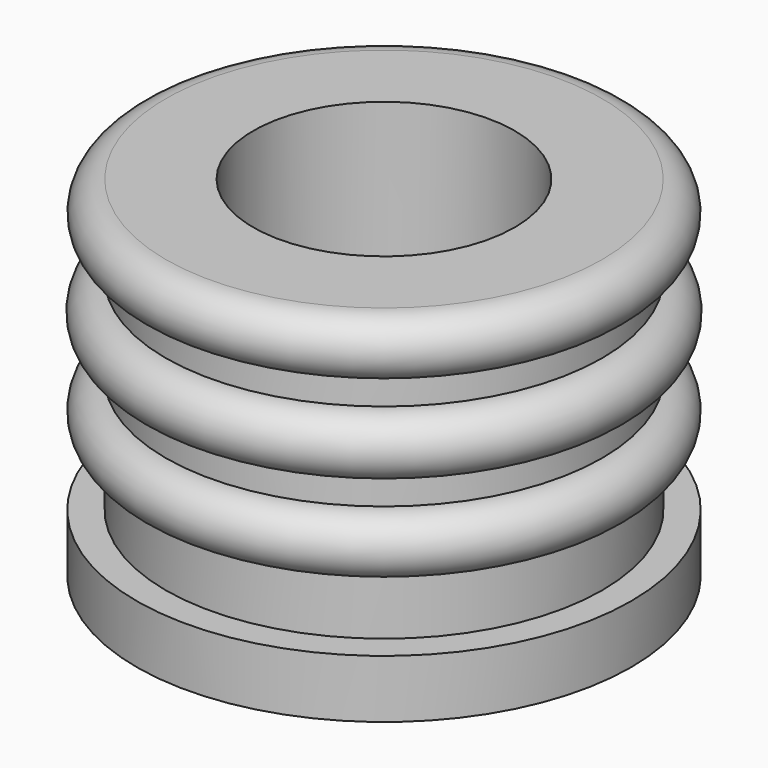
from build123d import *


with BuildPart() as f1:
    # F0 (on Front) → F1 (revolve)
    with BuildSketch(Plane.XZ):
        with BuildLine():
            Line((8.5, 1), (8.5, 3))
            Line((8.5, 3), (7.5, 3))
            Line((7.5, 3), (7.5, 5))
            ThreePointArc((7.5, 5), (8.5, 6), (7.5, 7))
            Line((7.5, 7), (7.5, 7.976211))
            ThreePointArc((7.5, 7.976211), (8.523789, 9), (7.5, 10.023789))
            Line((7.5, 10.023789), (7.5, 11.000019))
            ThreePointArc((7.5, 11.000019), (8.493881, 12.003057), (7.493886, 13))
            Line((7.493886, 13), (4.493886, 13))
            Line((4.493886, 13), (4.493886, 3))
            Line((4.493886, 3), (0, 3))
            Line((0, 3), (0, 0))
            ThreePointArc((0, 0), (3.316625, 0.251437), (6.557439, 1))
            Line((6.557439, 1), (8.5, 1))
        make_face()
    revolve(axis=Axis((0, 0, 9.5), (0, 0, 1)))


solid = f1.part
